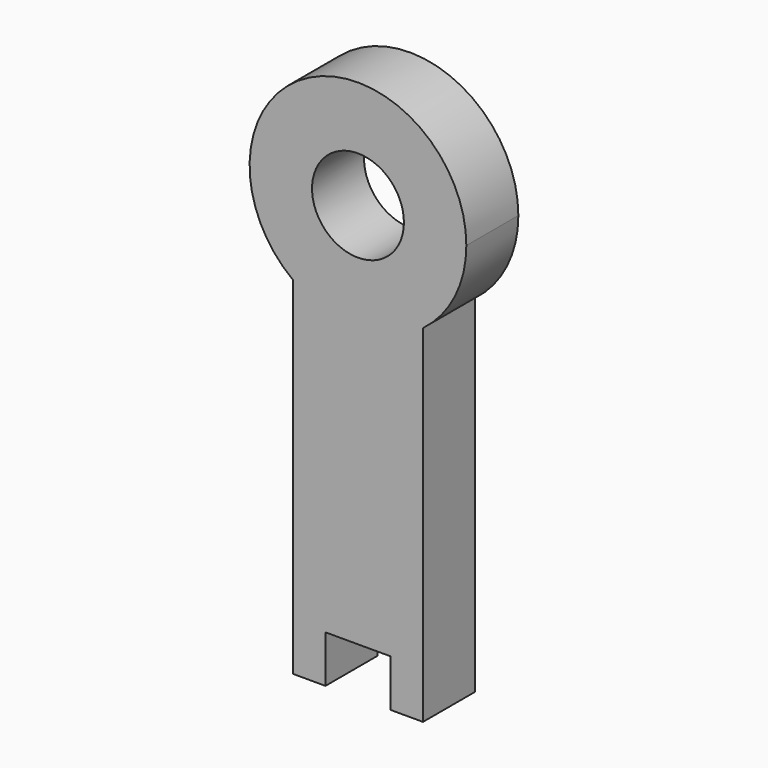
from build123d import *

# Parameters (mm, degrees)
F1_DEPTH = 19.05


with BuildPart() as f1:
    # F0 (on Front) → F1 (new body)
    with BuildSketch(Plane.XZ):
        with BuildLine():
            ThreePointArc((-1.3617971703, 59.9898834005), (-47.3108288274, 88.3879467147), (-52.1617971703, 34.5898834005))
            Line((-52.1617971703, 34.5898834005), (-52.1617971703, 59.9898834005))
            Line((-52.1617971703, 59.9898834005), (-46.5737971703, 59.9898834005))
            ThreePointArc((-46.5737971703, 59.9898834005), (-33.1117971703, 73.4518834005), (-19.6497971703, 59.9898834005))
            Line((-19.6497971703, 59.9898834005), (-14.0617971703, 59.9898834005))
            Line((-14.0617971703, 59.9898834005), (-14.0617971703, 34.5898834005))
            ThreePointArc((-14.0617971703, 34.5898834005), (-4.713733856, 45.7908517434), (-1.3617971703, 59.9898834005))
        make_face()
        with BuildLine():
            Line((-52.1617971703, 59.9898834005), (-52.1617971703, 34.5898834005))
            ThreePointArc((-52.1617971703, 34.5898834005), (-33.1117971703, 28.2398834005), (-14.0617971703, 34.5898834005))
            Line((-14.0617971703, 34.5898834005), (-14.0617971703, 59.9898834005))
            Line((-14.0617971703, 59.9898834005), (-19.6497971703, 59.9898834005))
            ThreePointArc((-19.6497971703, 59.9898834005), (-33.1117971703, 46.5278834005), (-46.5737971703, 59.9898834005))
            Line((-46.5737971703, 59.9898834005), (-52.1617971703, 59.9898834005))
        make_face()
        with BuildLine():
            Line((-52.1617971703, 34.5898834005), (-52.1617971703, -67.0101165995))
            Line((-52.1617971703, -67.0101165995), (-42.6367971703, -67.0101165995))
            Line((-42.6367971703, -67.0101165995), (-42.6367971703, -53.1852468848))
            Line((-42.6367971703, -53.1852468848), (-23.5867971703, -53.1852468848))
            Line((-23.5867971703, -53.1852468848), (-23.5867971703, -67.0101165995))
            Line((-23.5867971703, -67.0101165995), (-14.0617971703, -67.0101165995))
            Line((-14.0617971703, -67.0101165995), (-14.0617971703, 34.5898834005))
            ThreePointArc((-14.0617971703, 34.5898834005), (-33.1117971703, 28.2398834005), (-52.1617971703, 34.5898834005))
        make_face()
    extrude(amount=F1_DEPTH)


solid = f1.part
